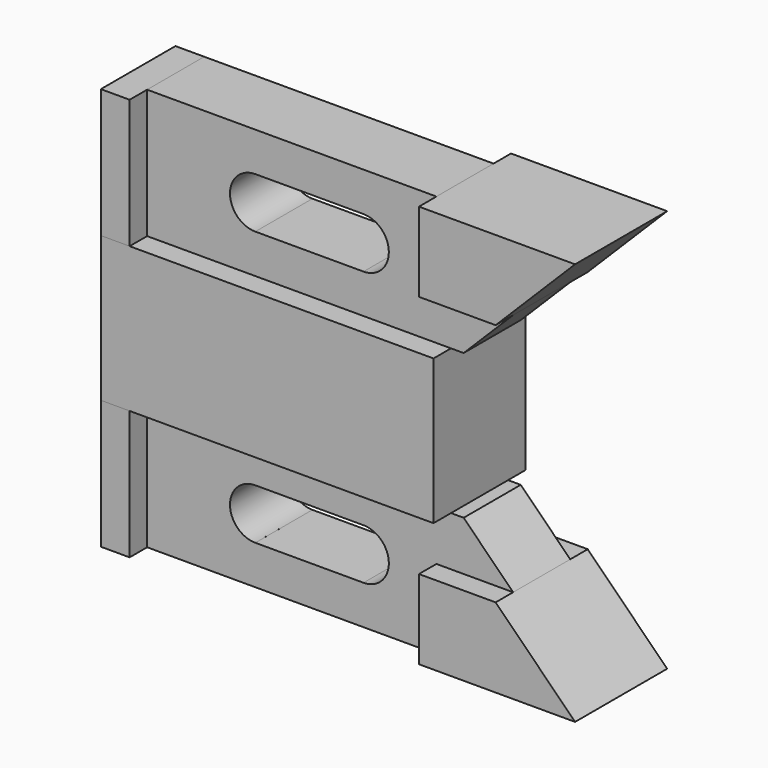
from build123d import *

# Parameters (mm, degrees)
F1_DEPTH      = 12.7
F2_DEPTH      = 7.874
F0_W          = 6.35
F0_H          = 28.448
F3_DEPTH      = 12.7
F3_DEPTH_BACK = 7.874
F4_DEPTH      = 12.7
F4_DEPTH_BACK = 7.874


with BuildPart() as f1:
    # F0 (on Front) → F1 (new body, symmetric)
    with BuildSketch(Plane.XZ):
        Polygon((33.490138276, 26.924), (50.419, 26.924), (67.945, 44.45), (33.490138276, 44.45), align=None)
    extrude(amount=F1_DEPTH, both=True)


with BuildPart() as f1b:
    # F0 (on Front) → F1, piece 2 (new body, symmetric)
    with BuildSketch(Plane.XZ):
        Polygon((36.703, -16.002), (36.703, 16.002), (-30.353, 16.002), (-36.703, 16.002), (-36.703, -16.002), (-30.353, -16.002), align=None)
    extrude(amount=F1_DEPTH, both=True)


with BuildPart() as f1c:
    # F0 (on Front) → F1, piece 3 (new body, symmetric)
    with BuildSketch(Plane.XZ):
        Polygon((67.945, -44.45), (50.419, -26.924), (33.490138276, -26.924), (33.490138276, -44.45), align=None)
    extrude(amount=F1_DEPTH, both=True)


with BuildPart() as f2:
    # F0 (on Front) → F2 (new body, symmetric)
    with BuildSketch(Plane.XZ):
        Polygon((-30.353, 16.002), (36.703, 16.002), (39.497, 16.002), (50.419, 26.924), (33.490138276, 26.924), (33.490138276, 44.45), (-30.353, 44.45), align=None)
        with BuildLine():
            ThreePointArc((-6.477, 24.638), (-12.065, 30.226), (-6.477, 35.814))
            Line((-6.477, 35.814), (17.399, 35.814))
            ThreePointArc((17.399, 35.814), (22.987, 30.226), (17.399, 24.638))
            Line((17.399, 24.638), (-6.477, 24.638))
        make_face(mode=Mode.SUBTRACT)
    extrude(amount=F2_DEPTH, both=True)


with BuildPart() as f2b:
    # F0 (on Front) → F2, piece 2 (new body, symmetric)
    with BuildSketch(Plane.XZ):
        Polygon((39.497, -16.002), (36.703, -16.002), (-30.353, -16.002), (-30.353, -44.45), (33.490138276, -44.45), (33.490138276, -26.924), (50.419, -26.924), align=None)
        with BuildLine():
            Line((17.399, -35.814), (-6.4793322235, -35.814))
            Line((-6.4793322235, -35.814), (-6.4793322235, -35.8116677765))
            ThreePointArc((-6.4793322235, -35.8116677765), (-12.065, -30.226), (-6.4793322235, -24.6403322235))
            Line((-6.4793322235, -24.6403322235), (17.2375704768, -24.6403322235))
            ThreePointArc((17.2375704768, -24.6403322235), (17.399, -24.638), (17.5604295232, -24.6403322235))
            ThreePointArc((17.5604295232, -24.6403322235), (22.9864169137, -30.3067231847), (17.399, -35.814))
        make_face(mode=Mode.SUBTRACT)
    extrude(amount=F2_DEPTH, both=True)


with BuildPart() as f3:
    # F0 (on Front) → F3 (new body, two sides)
    with BuildSketch(Plane.XZ) as f3_sk:
        with Locations((-33.528, 30.226)):
            Rectangle(F0_W, F0_H)
    extrude(amount=F3_DEPTH)
    extrude(f3_sk.sketch, amount=-F3_DEPTH_BACK)


with BuildPart() as f4:
    # F0 (on Front) → F4 (new body, two sides)
    with BuildSketch(Plane.XZ) as f4_sk:
        with Locations((-33.528, -30.226)):
            Rectangle(F0_W, F0_H)
    extrude(amount=F4_DEPTH)
    extrude(f4_sk.sketch, amount=-F4_DEPTH_BACK)


solid = Compound([f1.part, f1b.part, f1c.part, f2.part, f2b.part, f3.part, f4.part])
